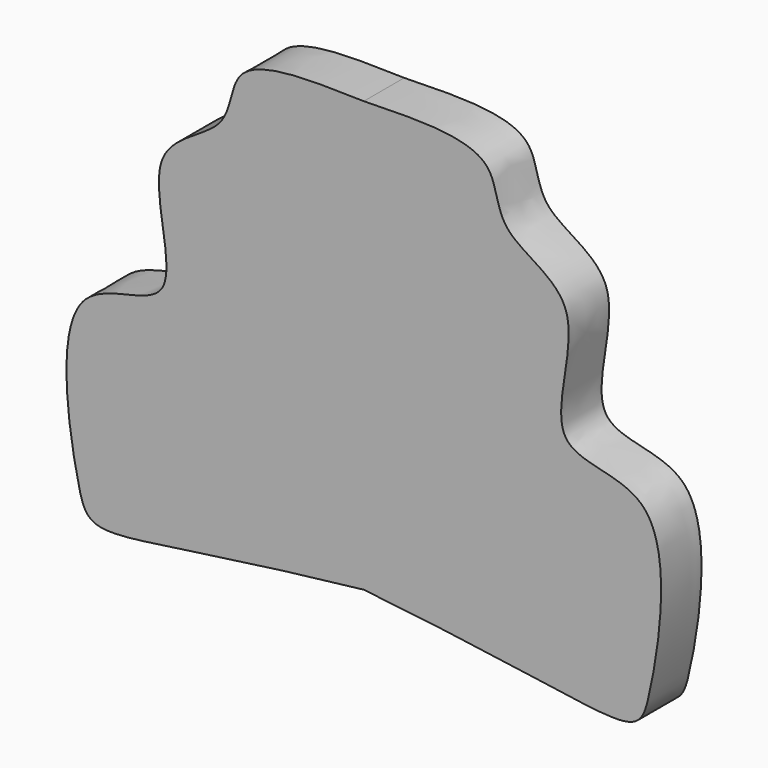
from build123d import *

# Parameters (mm, degrees)
F1_DEPTH = 10


with BuildPart() as f1:
    # F0 (on Front) → F1 (new body)
    with BuildSketch(Plane.XZ):
        with BuildLine():
            add(Edge.make_bspline(
                [(0, 61.3465810989), (11.2829138614, 61.6527119634), (27.1027173199, 61.9101488028), (25.5431279034, 46.3290972541), (46.4464729243, 41.1862908688), (32.5877901403, 10.2527857382), (63.1522213582, 14.9554616121), (54.6687956278, -38.0575726975), (53.307721605, -29.5540309534), (0, -23.7401537597)],
                knots=[0, 0, 0, 0, 0.144973666, 0.2391721742, 0.3554318922, 0.4934159969, 0.6142702538, 0.7797507819, 1, 1, 1, 1], degree=3))
            add(Edge.make_bspline(
                [(0, 61.3465810989), (-11.2829138614, 61.6527119634), (-27.1027173199, 61.9101488028), (-25.5431279034, 46.3290972541), (-46.4464729243, 41.1862908688), (-32.5877901403, 10.2527857382), (-63.1522213582, 14.9554616121), (-54.6687956278, -38.0575726975), (-53.307721605, -29.5540309534), (0, -23.7401537597)],
                knots=[0, 0, 0, 0, 0.144973666, 0.2391721742, 0.3554318922, 0.4934159969, 0.6142702538, 0.7797507819, 1, 1, 1, 1], degree=3))
        make_face()
    extrude(amount=F1_DEPTH)


solid = f1.part
